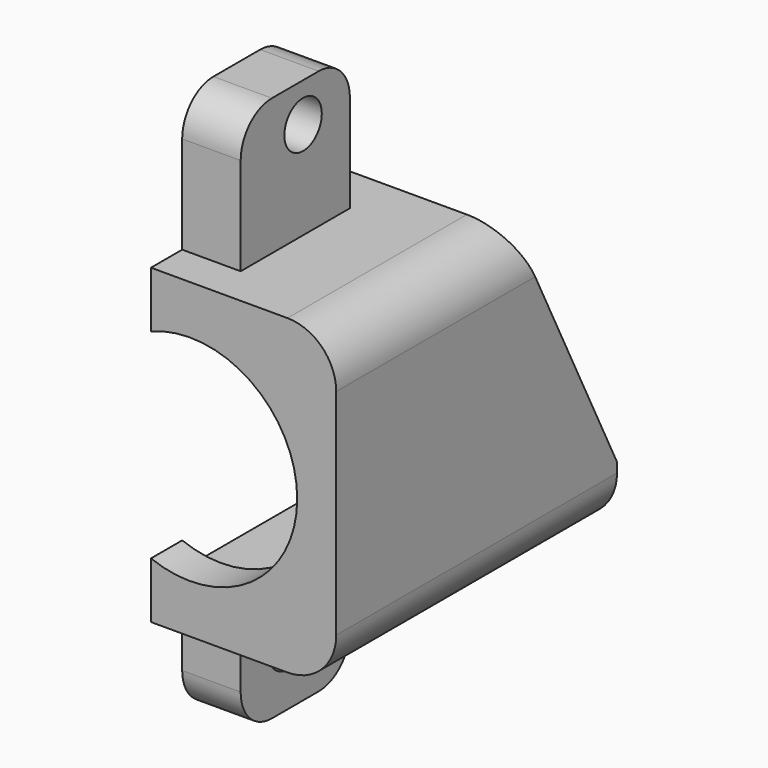
from build123d import *

# Parameters (mm, degrees)
BOX520_W                  = 10.4
BOX520_H                  = 12.4
BOX520_DEPTH              = 27
FILLET403_R               = 1
CYLINDER1231_R            = 8
CYLINDER1231_DEPTH        = 27
CYLINDER1233_R            = 6.5
CYLINDER1233_DEPTH        = 17
CYLINDER1232_R            = 8
CYLINDER1232_DEPTH        = 17
CYLINDER1234_R            = 8
CYLINDER1234_DEPTH        = 27
CUT014272_PLACEMENT_ANGLE = 90
CYLINDER1230_R            = 5.5
CYLINDER1230_DEPTH        = 15
CYLINDER1229_R            = 1.2
CYLINDER1229_DEPTH        = 11
CYLINDER1228_R            = 1.2
CYLINDER1228_DEPTH        = 11
CYLINDER1275_R            = 2.3
CYLINDER1275_DEPTH        = 11
BOX519_W                  = 9.5
BOX519_H                  = 18
BOX519_DEPTH              = 16
CHAMFER036_SIZE2          = 6.5
CHAMFER036_SIZE           = 13
FILLET409_R               = 2.5
BOX542_W                  = 3
BOX542_H                  = 7
BOX542_DEPTH              = 28
FILLET415_R               = 2


with BuildPart() as fillet403:
    # Box520 → Box520 (new body)
    with BuildSketch(Plane(origin=(-5.2, -6.2, 0), x_dir=(1, 0, 0), z_dir=(0, 0, 1))):
        with Locations((5.2, 6.2)):
            Rectangle(BOX520_W, BOX520_H)
    extrude(amount=BOX520_DEPTH)

    # Fillet403
    fillet403_edges = [fillet403.edges().sort_by_distance(p)[0] for p in [
        (-5.2, -6.2, 13.5),
        (-5.2, 6.2, 13.5),
        (5.2, -6.2, 13.5),
        (5.2, 6.2, 13.5),
    ]]
    fillet(fillet403_edges, radius=FILLET403_R)


with BuildPart() as cut014271:
    # Cylinder1231 → Cylinder1231 (new body)
    with BuildSketch(Plane.XY):
        Circle(CYLINDER1231_R)
    extrude(amount=CYLINDER1231_DEPTH)

    # Cut014271: cut Fillet403
    add(fillet403.part, mode=Mode.SUBTRACT)


with BuildPart() as cylinder1429:
    # Cylinder1233 → Cylinder1233 (new body)
    with BuildSketch(Plane.XY):
        Circle(CYLINDER1233_R)
    extrude(amount=CYLINDER1233_DEPTH)


with BuildPart() as fusion248002050137:
    # Cylinder1232 → Cylinder1232 (new body)
    with BuildSketch(Plane.XY):
        Circle(CYLINDER1232_R)
    extrude(amount=CYLINDER1232_DEPTH)

    # Cut014270: cut Cylinder1429
    add(cylinder1429.part, mode=Mode.SUBTRACT)

    # Fusion248002050137: union Cut014271
    add(cut014271.part)


with BuildPart() as bucket_turning_motor002:
    # Cylinder1234 → Cylinder1234 (new body)
    with BuildSketch(Plane.XY):
        Circle(CYLINDER1234_R)
    extrude(amount=CYLINDER1234_DEPTH)

    # Cut014272: cut Fusion248002050137
    add(fusion248002050137.part, mode=Mode.SUBTRACT)


with BuildPart() as bucket_turning_motor002_1:
    # Cut014272 placement: moved
    add(bucket_turning_motor002.part.moved(Location((480.5, 119, 114.75))).rotate(Axis((480.5, 119, 114.75), (1, 0, 0)), CUT014272_PLACEMENT_ANGLE))


with BuildPart() as cylinder1230:
    # Cylinder1230 → Cylinder1230 (new body)
    with BuildSketch(Plane(origin=(480, 92, 115), x_dir=(1, 0, 0), z_dir=(0, -1, 0))):
        Circle(CYLINDER1230_R)
    extrude(amount=CYLINDER1230_DEPTH)


with BuildPart() as cylinder1229:
    # Cylinder1229 → Cylinder1229 (new body)
    with BuildSketch(Plane(origin=(476, 95, 105), x_dir=(0, 0, -1), z_dir=(1, 0, 0))):
        Circle(CYLINDER1229_R)
    extrude(amount=CYLINDER1229_DEPTH)


with BuildPart() as fusion248002050197:
    # Cylinder1228 → Cylinder1228 (new body)
    with BuildSketch(Plane(origin=(476, 96, 128), x_dir=(0, 0, -1), z_dir=(1, 0, 0))):
        Circle(CYLINDER1228_R)
    extrude(amount=CYLINDER1228_DEPTH)

    # Fusion248002050197: union Cylinder1229
    add(cylinder1229.part)


with BuildPart() as cylinder1275:
    # Cylinder1275 → Cylinder1275 (new body)
    with BuildSketch(Plane(origin=(481, 95, 105), x_dir=(0, 0, -1), z_dir=(1, 0, 0))):
        Circle(CYLINDER1275_R)
    extrude(amount=CYLINDER1275_DEPTH)


with BuildPart() as fillet409:
    # Box519 → Box519 (new body)
    with BuildSketch(Plane(origin=(478, 90, 107), x_dir=(1, 0, 0), z_dir=(0, 0, 1))):
        with Locations((4.75, 9)):
            Rectangle(BOX519_W, BOX519_H)
    extrude(amount=BOX519_DEPTH)

    # Chamfer036
    chamfer036_edges = [fillet409.edges().sort_by_distance(p)[0] for p in [
        (482.75, 108, 123),
    ]]
    chamfer036_side = fillet409.faces().sort_by_distance((482.75, 108, 115))[0]
    chamfer(chamfer036_edges, length=CHAMFER036_SIZE, length2=CHAMFER036_SIZE2, reference=chamfer036_side)

    # Fillet409
    fillet409_edges = [fillet409.edges().sort_by_distance(p)[0] for p in [
        (487.5, 95.75, 123),
        (487.5, 99, 107),
    ]]
    fillet(fillet409_edges, radius=FILLET409_R)


with BuildPart() as bucket_rotating_motor_holder:
    # Box542 → Box542 (new body)
    with BuildSketch(Plane(origin=(478, 92, 102), x_dir=(1, 0, 0), z_dir=(0, 0, 1))):
        with Locations((1.5, 3.5)):
            Rectangle(BOX542_W, BOX542_H)
    extrude(amount=BOX542_DEPTH)

    # Fusion248002050208: union Fillet409
    add(fillet409.part)

    # Cut014334: cut Cylinder1275
    add(cylinder1275.part, mode=Mode.SUBTRACT)

    # Cut014335: cut Fusion248002050197
    add(fusion248002050197.part, mode=Mode.SUBTRACT)

    # Cut014336: cut Cylinder1230
    add(cylinder1230.part, mode=Mode.SUBTRACT)

    # Cut014337: cut bucket-turning-motor002
    add(bucket_turning_motor002_1.part, mode=Mode.SUBTRACT)

    # Fillet415
    fillet415_edges = [bucket_rotating_motor_holder.edges().sort_by_distance(p)[0] for p in [
        (479.5, 99, 102),
        (479.5, 92, 102),
        (479.5, 99, 130),
        (479.5, 92, 130),
    ]]
    fillet(fillet415_edges, radius=FILLET415_R)


solid = bucket_rotating_motor_holder.part
